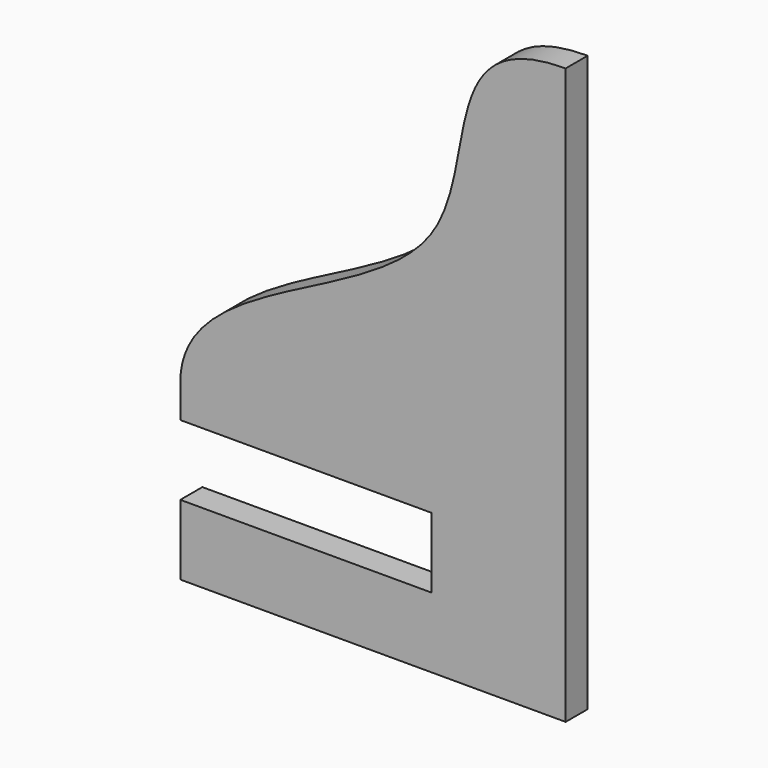
from build123d import *

# Parameters (mm, degrees)
F1_DEPTH = 2.54


with BuildPart() as f1:
    # F0 (on Front) → F1 (new body)
    with BuildSketch(Plane.XZ):
        with BuildLine():
            Line((0, -10.1231690496), (0, 42.9135896266))
            add(Edge.make_bspline(
                [(0, 42.9135896266), (-12.1476806197, 42.9135896266), (-2.739209771, 19.3897308122), (-35.5233164852, 15.458070993), (-35.5233164852, 5.8638730506)],
                knots=[0, 0, 0, 0, 0.4555847707, 1, 1, 1, 1], degree=3))
            Line((-35.5233164852, 5.8638730506), (-35.5233164852, 2.8238131199))
            Line((-35.5233164852, 2.8238131199), (-12.3643353581, 2.8238131199))
            Line((-12.3643353581, 2.8238131199), (-12.3643353581, -3.6496780813))
            Line((-12.3643353581, -3.6496780813), (-35.5233164852, -3.6496780813))
            Line((-35.5233164852, -3.6496780813), (-35.5233164852, -10.1231690496))
            Line((-35.5233164852, -10.1231690496), (0, -10.1231690496))
        make_face()
    extrude(amount=F1_DEPTH)


solid = f1.part
